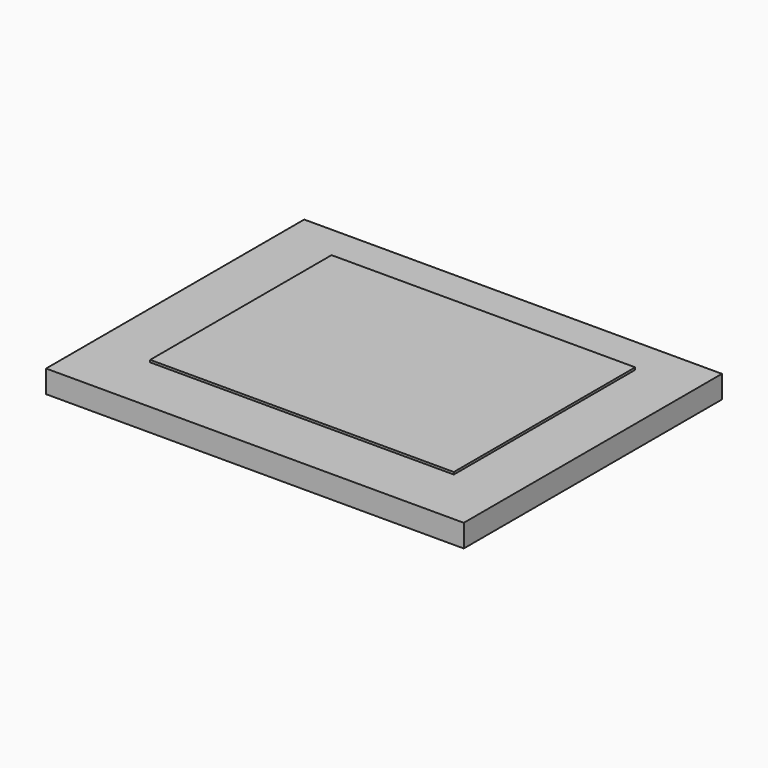
from build123d import *

# Parameters (mm, degrees)
BOX001_W     = 18.46
BOX001_H     = 14.26
BOX001_DEPTH = 1
BOX_W        = 13.42
BOX_H        = 10.02
BOX_DEPTH    = 0.1


with BuildPart() as obj1:
    # Box001 → Box001 (new body)
    with BuildSketch(Plane.XY):
        with Locations((9.23, 7.13)):
            Rectangle(BOX001_W, BOX001_H)
    extrude(amount=BOX001_DEPTH)


with BuildPart() as display:
    # Box → Box (new body)
    with BuildSketch(Plane(origin=(2.52, 2.6, 1), x_dir=(1, 0, 0), z_dir=(0, 0, 1))):
        with Locations((6.71, 5.01)):
            Rectangle(BOX_W, BOX_H)
    extrude(amount=BOX_DEPTH)

    # Fusion: union obj1
    add(obj1.part)


solid = display.part
